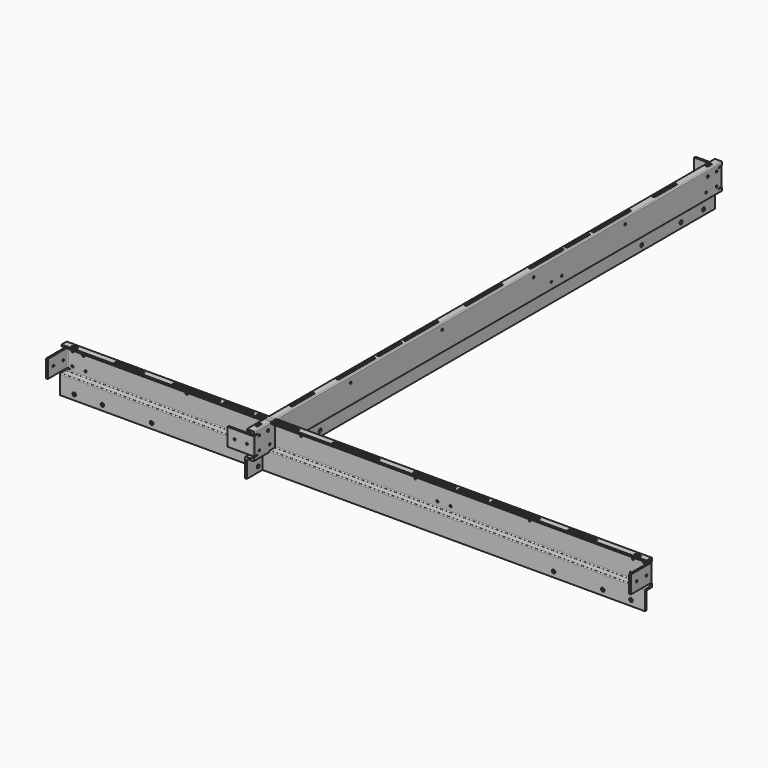
from build123d import *

# Parameters (mm, degrees)
F1_DEPTH  = 665
F2_W      = 2
F2_H      = 20
F3_DEPTH  = 28
F5_DEPTH  = 2
F6_R      = 2.05
F6_R_2    = 1.2
F6_R_3    = 1.5
F7_DEPTH  = 25
F8_R      = 1.2
F9_DEPTH  = 665.001
F10_R     = 1
F11_R     = 1
F14_ANGLE = 90


with BuildPart() as f1:
    # F0 (on Front) → F1 (new body)
    with BuildSketch(Plane.XZ):
        Polygon((-12, 60), (-20, 60), (-20, 30), (-12, 30), (-12, 10), (-10, 10), (-10, 32), (-18, 32), (-18, 58), (-12, 58), align=None)
    extrude(amount=F1_DEPTH)

    # F2 (on face) → F3 (join)
    with BuildSketch(Plane.YZ.offset(-18)):
        with Locations((-1, 45)):
            Rectangle(F2_W, F2_H)
        with Locations((-664, 45)):
            Rectangle(F2_W, F2_H)
    extrude(amount=F3_DEPTH)

    # F4 (on face) → F5 (cut)
    with BuildSketch(Plane.XY.offset(60)):
        with BuildLine():
            ThreePointArc((-16.5, -14.5), (-15, -16), (-13.5, -14.5))
            Line((-13.5, -14.5), (-13.5, -10.5))
            ThreePointArc((-13.5, -10.5), (-15, -9), (-16.5, -10.5))
            Line((-16.5, -10.5), (-16.5, -14.5))
        make_face()
        with BuildLine():
            ThreePointArc((-16.5, -654.5), (-15, -656), (-13.5, -654.5))
            Line((-13.5, -654.5), (-13.5, -650.5))
            ThreePointArc((-13.5, -650.5), (-15, -649), (-16.5, -650.5))
            Line((-16.5, -650.5), (-16.5, -654.5))
        make_face()
        with BuildLine():
            ThreePointArc((-16.5, -90), (-15, -91.5), (-13.5, -90))
            Line((-13.5, -90), (-13.5, -60))
            ThreePointArc((-13.5, -60), (-15, -58.5), (-16.5, -60))
            Line((-16.5, -60), (-16.5, -90))
        make_face()
        with BuildLine():
            ThreePointArc((-16.5, -176.5), (-15, -178), (-13.5, -176.5))
            Line((-13.5, -176.5), (-13.5, -125.5))
            ThreePointArc((-13.5, -125.5), (-15, -124), (-16.5, -125.5))
            Line((-16.5, -125.5), (-16.5, -176.5))
        make_face()
        with BuildLine():
            ThreePointArc((-16.5, -266), (-15, -267.5), (-13.5, -266))
            Line((-13.5, -266), (-13.5, -221))
            ThreePointArc((-13.5, -221), (-15, -219.5), (-16.5, -221))
            Line((-16.5, -221), (-16.5, -266))
        make_face()
        with BuildLine():
            ThreePointArc((-16.5, -357.5), (-15, -359), (-13.5, -357.5))
            Line((-13.5, -357.5), (-13.5, -307.5))
            ThreePointArc((-13.5, -307.5), (-15, -306), (-16.5, -307.5))
            Line((-16.5, -307.5), (-16.5, -357.5))
        make_face()
        with BuildLine():
            ThreePointArc((-16.5, -214.5), (-15, -216), (-13.5, -214.5))
            Line((-13.5, -214.5), (-13.5, -183.5))
            ThreePointArc((-13.5, -183.5), (-15, -182), (-16.5, -183.5))
            Line((-16.5, -183.5), (-16.5, -214.5))
        make_face()
        with BuildLine():
            ThreePointArc((-13.5, -450.5), (-15, -449), (-16.5, -450.5))
            Line((-16.5, -450.5), (-16.5, -481.5))
            ThreePointArc((-16.5, -481.5), (-15, -483), (-13.5, -481.5))
            Line((-13.5, -481.5), (-13.5, -450.5))
        make_face()
        with BuildLine():
            ThreePointArc((-16.5, -539.5), (-15, -541), (-13.5, -539.5))
            Line((-13.5, -539.5), (-13.5, -488.5))
            ThreePointArc((-13.5, -488.5), (-15, -487), (-16.5, -488.5))
            Line((-16.5, -488.5), (-16.5, -539.5))
        make_face()
        with BuildLine():
            ThreePointArc((-13.5, -399), (-15, -397.5), (-16.5, -399))
            Line((-16.5, -399), (-16.5, -444))
            ThreePointArc((-16.5, -444), (-15, -445.5), (-13.5, -444))
            Line((-13.5, -444), (-13.5, -399))
        make_face()
        with BuildLine():
            ThreePointArc((-13.5, -575), (-15, -573.5), (-16.5, -575))
            Line((-16.5, -575), (-16.5, -605))
            ThreePointArc((-16.5, -605), (-15, -606.5), (-13.5, -605))
            Line((-13.5, -605), (-13.5, -575))
        make_face()
    extrude(amount=-F5_DEPTH, mode=Mode.SUBTRACT)

    # F6 (on face) → F7 (cut)
    with BuildSketch(Plane.YZ.offset(-10)):
        with Locations((-16, 16)):
            Circle(F6_R)
        with Locations((-617, 16)):
            Circle(F6_R)
        with Locations((-104, 16)):
            Circle(F6_R)
        with Locations((-7.5, 53)):
            Circle(F6_R_2)
        with Locations((-137.5, 53)):
            Circle(F6_R_2)
        with Locations((-267.5, 53)):
            Circle(F6_R_2)
        with Locations((-397.5, 53)):
            Circle(F6_R_2)
        with Locations((-527.5, 53)):
            Circle(F6_R_2)
        with Locations((-657.5, 53)):
            Circle(F6_R_2)
        with Locations((-48, 16)):
            Circle(F6_R)
        with Locations((-649, 16)):
            Circle(F6_R)
        with Locations((-561, 16)):
            Circle(F6_R)
        Polygon((-660, 56), (-665, 56), (-665, 55), (-663, 55), (-660, 55), align=None)
        Polygon((-663, 35), (-665, 35), (-665, 34), (-660, 34), (-660, 35), align=None)
        Polygon((0, 55), (0, 56), (-5, 56), (-5, 55), (-2, 55), align=None)
        Polygon((0, 34), (0, 35), (-2, 35), (-5, 35), (-5, 34), align=None)
        with Locations((-7.5, 38)):
            Circle(F6_R_2)
        with Locations((-657.5, 38)):
            Circle(F6_R_2)
        with Locations((-22.5, 38)):
            Circle(F6_R_2)
        with Locations((-642.5, 38)):
            Circle(F6_R_2)
        with Locations((-227.5, 38)):
            Circle(F6_R_2)
        with Locations((-242.5, 38)):
            Circle(F6_R_2)
        with Locations((-20, 53)):
            Circle(F6_R_3)
        with Locations((-645, 53)):
            Circle(F6_R_3)
    extrude(amount=-F7_DEPTH, mode=Mode.SUBTRACT)

    # F8 (on face) → F9 (cut, through all)
    with BuildSketch(Plane.XZ.offset(665)):
        with Locations((-12, 45)):
            Circle(F8_R)
        with Locations((2, 45)):
            Circle(F8_R)
    extrude(amount=-F9_DEPTH, mode=Mode.SUBTRACT)

    # F10
    f10_edges = [f1.edges().sort_by_distance(p)[0] for p in [
        (-20, -332.5, 60),
        (-18, -332.5, 58),
        (-18, -332.5, 32),
        (-10, -332.5, 32),
        (-20, -332.5, 30),
        (-12, -332.5, 30),
    ]]
    fillet(f10_edges, radius=F10_R)

    # F11
    f11_edges = [f1.edges().sort_by_distance(p)[0] for p in [
        (-18, -663, 45),
        (-20, -665, 45),
        (-18, -2, 45),
        (-20, 0, 45),
    ]]
    fillet(f11_edges, radius=F11_R)


with BuildPart() as f13_1:
    # F13: instance of F1
    add(f1.part.mirror(Plane.YZ.offset(113)))


with BuildPart() as f1_1:
    # F14: moved
    add(f1.part.rotate(Axis((10, -663, 45), (0, 0, -1)), F14_ANGLE))


solid = Compound([f13_1.part, f1_1.part])
